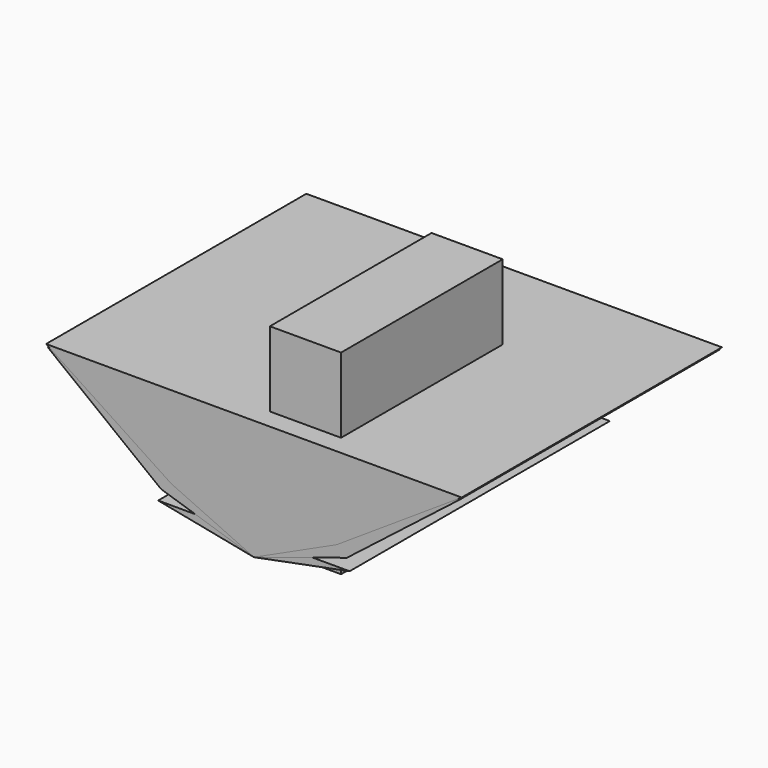
from build123d import *

# Parameters (mm, degrees)
F3_DEPTH = 127
F4_W     = 27.7905929834
F4_H     = 78.8894183934
F5_DEPTH = 76.2


with BuildPart() as f3:
    # F0 (on Front) → F3 (new body)
    with BuildSketch(Plane.XZ):
        Polygon((-37.3886082215, 7.3281631574), (0, 0), (37.388604509, 7.3281631574), align=None)
    extrude(amount=F3_DEPTH)


with BuildPart() as f3b:
    # F1 (on Front) → F3, piece 2 (new body)
    with BuildSketch(Plane.XZ):
        Polygon((-36.2803565689, 11.6338182567), (0, 0), (36.2926745631, 11.595334107), (80.3821684599, 45.9274026134), (-80.3997907445, 45.9274026134), align=None)
    extrude(amount=F3_DEPTH)


with BuildPart() as f3c:
    # F2 (on Front) → F3, piece 3 (new body)
    with BuildSketch(Plane.XZ):
        Polygon((-32.3263696832, 14.8161878736), (0, 0), (32.3263696832, 14.8161878736), align=None)
        Polygon((-81.1394575293, 46.9125872811), (-32.3263696832, 14.8161878736), (32.3263696832, 14.8161878736), (81.1394575293, 46.9125872811), align=None)
    extrude(amount=F3_DEPTH)


with BuildPart() as f5:
    # F4 (on Top) → F5 (new body)
    with BuildSketch(Plane.XY):
        with Locations((13.8952964917, -79.7485318035)):
            Rectangle(F4_W, F4_H)
    extrude(amount=F5_DEPTH)


solid = Compound([f3.part, f3b.part, f3c.part, f5.part])
